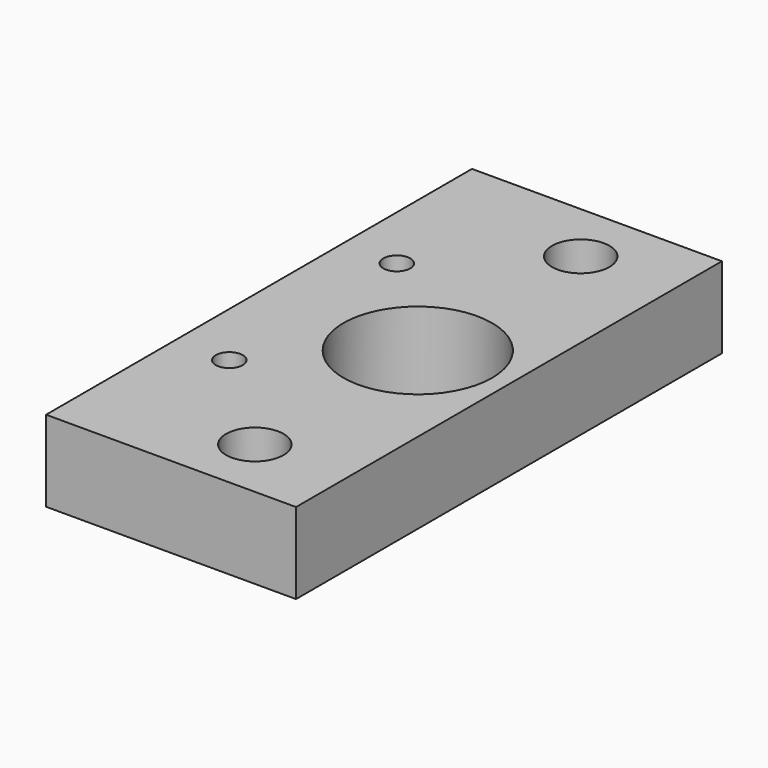
from build123d import *

# Parameters (mm, degrees)
F0_R     = 2
F0_R_2   = 4.25
F0_R_3   = 11
F1_DEPTH = 12


with BuildPart() as f1:
    # F0 (on Top) → F1 (new body)
    with BuildSketch(Plane.XY):
        Polygon((13.5, -39.4), (13.5, -15.5), (13.5, 15.5), (13.5, 39.4), (-23.5, 39.4), (-23.5, 19.5), (-23.5, -19.5), (-23.5, -39.4), align=None)
        with Locations((-15.5, -15.5)):
            Circle(F0_R, mode=Mode.SUBTRACT)
        with Locations((0, -30.15)):
            Circle(F0_R_2, mode=Mode.SUBTRACT)
        with Locations((-15.5, 15.5)):
            Circle(F0_R, mode=Mode.SUBTRACT)
        Circle(F0_R_3, mode=Mode.SUBTRACT)
        with Locations((0, 30.15)):
            Circle(F0_R_2, mode=Mode.SUBTRACT)
    extrude(amount=F1_DEPTH)


solid = f1.part
